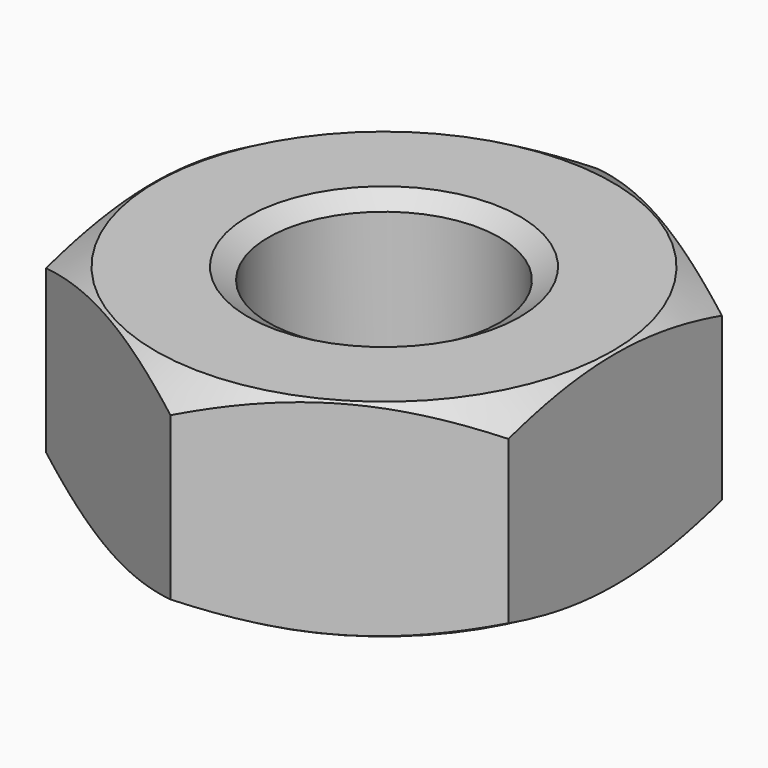
from build123d import *

# Parameters (mm, degrees)
SKETCH001_R  = 10
POCKET_DEPTH = 7.6


with BuildPart() as part:
    # Sketch → Revolution (revolve)
    with BuildSketch(Plane.XZ):
        Polygon((5, 0), (4.25, 0.433013), (4.25, 7.166987), (5, 7.6), (8.4, 7.6), (10, 6.67624), (10, 0.92376), (8.4, 0), align=None)
    revolve(axis=Axis((0, 0, 0), (0, 0, 1)))

    # Sketch001 → Pocket (cut)
    with BuildSketch(Plane(origin=(0, 0, 7.6), x_dir=(-1, 0, 0), z_dir=(0, 0, 1))):
        Circle(SKETCH001_R)
        Polygon((-8.5, 4.907477), (-8.5, -4.907477), (0, -9.814955), (8.5, -4.907477), (8.5, 4.907477), (0, 9.814955), align=None, mode=Mode.SUBTRACT)
    extrude(amount=-POCKET_DEPTH, mode=Mode.SUBTRACT)


solid = part.part
